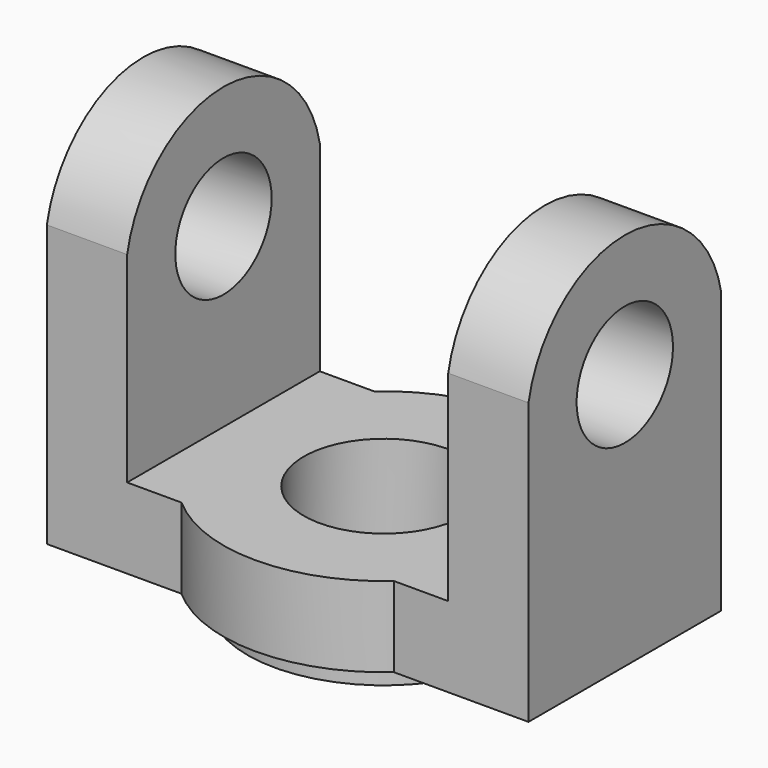
from build123d import *

# Parameters (mm, degrees)
F0_R     = 10
F1_DEPTH = 50
F2_R     = 10
F3_DEPTH = 40
F4_R     = 7.5
F5_DEPTH = 60.001
F6_R     = 17
F6_R_2   = 10
F7_DEPTH = 3


with BuildPart() as f1:
    # F0 (on Top) → F1 (new body)
    with BuildSketch(Plane.XY):
        with BuildLine():
            Line((43.2287565553, 0), (16.7712434447, 0))
            ThreePointArc((16.7712434447, 0), (30, -5), (43.2287565553, 0))
        make_face()
        Polygon((0, 30), (0, 0), (16.7712434447, 0), (43.2287565553, 0), (60, 0), (60, 30), (43.2287565553, 30), (16.7712434447, 30), align=None)
        with Locations((30, 15)):
            Circle(F0_R, mode=Mode.SUBTRACT)
        with BuildLine():
            ThreePointArc((43.2287565553, 30), (30, 35), (16.7712434447, 30))
            Line((16.7712434447, 30), (43.2287565553, 30))
        make_face()
    extrude(amount=F1_DEPTH)

    # F2 (on face) → F3 (cut)
    with BuildSketch(Plane.XY.offset(50)):
        with BuildLine():
            ThreePointArc((43.2287565553, 30), (37.0710678119, 33.7082869339), (30, 35))
            ThreePointArc((30, 35), (22.9289321881, 33.7082869339), (16.7712434447, 30))
            Line((16.7712434447, 30), (10, 30))
            Line((10, 30), (10, 0))
            Line((10, 0), (16.7712434447, 0))
            ThreePointArc((16.7712434447, 0), (22.9289321949, -3.7082869364), (30.0000000144, -5))
            ThreePointArc((30.0000000144, -5), (37.0710678186, -3.7082869313), (43.2287565553, 0))
            Line((43.2287565553, 0), (50, 0))
            Line((50, 0), (50, 30))
            Line((50, 30), (43.2287565553, 30))
        make_face()
        with Locations((30, 15)):
            Circle(F2_R, mode=Mode.SUBTRACT)
    extrude(amount=-F3_DEPTH, mode=Mode.SUBTRACT)

    # F4 (on face) → F5 (cut, through all)
    with BuildSketch(Plane.YZ.offset(60)):
        with BuildLine():
            Line((30, 50), (0, 50))
            Line((0, 50), (0, 35))
            ThreePointArc((0, 35), (15, 47.2970585408), (30, 35))
            Line((30, 35), (30, 50))
        make_face()
        with Locations((15, 32)):
            Circle(F4_R)
    extrude(amount=-F5_DEPTH, mode=Mode.SUBTRACT)

    # F6 (on face) → F7 (join)
    with BuildSketch(Plane(origin=(0, 0, 0), x_dir=(1, 0, 0), z_dir=(0, 0, -1))):
        with Locations((30, -15)):
            Circle(F6_R)
        with Locations((30, -15)):
            Circle(F6_R_2, mode=Mode.SUBTRACT)
    extrude(amount=F7_DEPTH)


solid = f1.part
